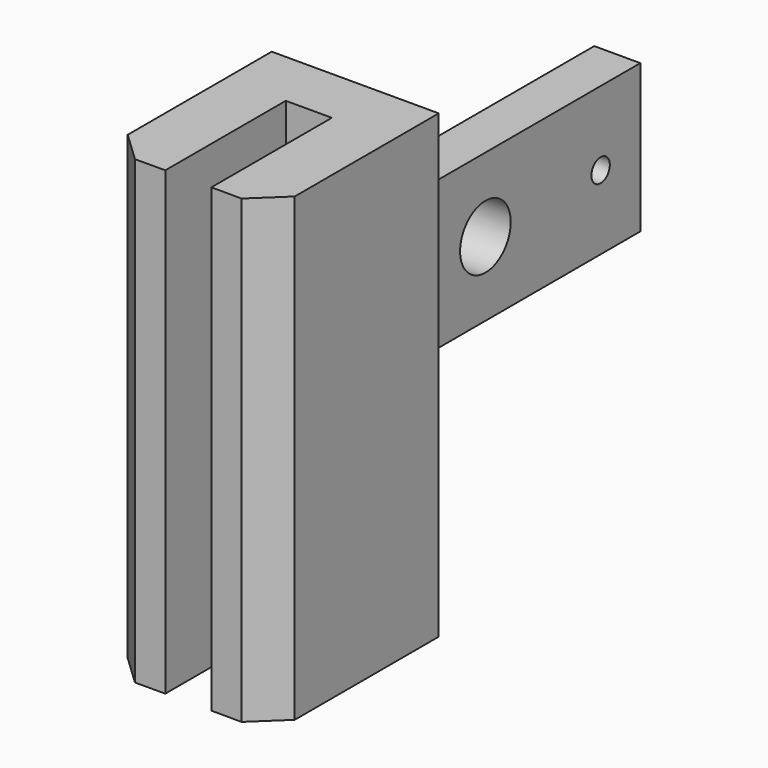
from build123d import *

# Parameters (mm, degrees)
F1_DEPTH = 80
F2_R     = 2
F2_R_2   = 5.5
F3_DEPTH = 25


with BuildPart() as f1:
    # F0 (on Top) → F1 (new body)
    with BuildSketch(Plane.XY):
        Polygon((-14.5, 88.131121), (-14.5, 18.131121), (-14.5, -13.131121), (-9.25, -18.109524), (-4, -18.087926), (-4, 8.054228), (4, 8.054228), (4, -18.087926), (9.25, -18.109524), (14.5, -13.131121), (14.5, 18.131121), (-6.5, 18.131121), (-6.5, 88.131121), align=None)
    extrude(amount=F1_DEPTH)

    # F2 (on Right) → F3 (cut)
    with BuildSketch(Plane.YZ):
        Polygon((23.512104, 52.394919), (88.131121, 52.394919), (88.131121, 80), (18.131121, 80), (18.131121, 52.394919), align=None)
        Polygon((88.131121, -0.940287), (88.131121, 26.664793), (23.512104, 26.664793), (19.000409, 26.664793), (18.146811, 26.664793), (18.146811, 0), (18.146811, -0.940287), align=None)
        with Locations((79.512104, 39.529856)):
            Circle(F2_R)
        with Locations((54.512104, 39.529856)):
            Circle(F2_R_2)
        with Locations((29.512104, 39.529856)):
            Circle(F2_R)
    extrude(amount=-F3_DEPTH, mode=Mode.SUBTRACT)


solid = f1.part
